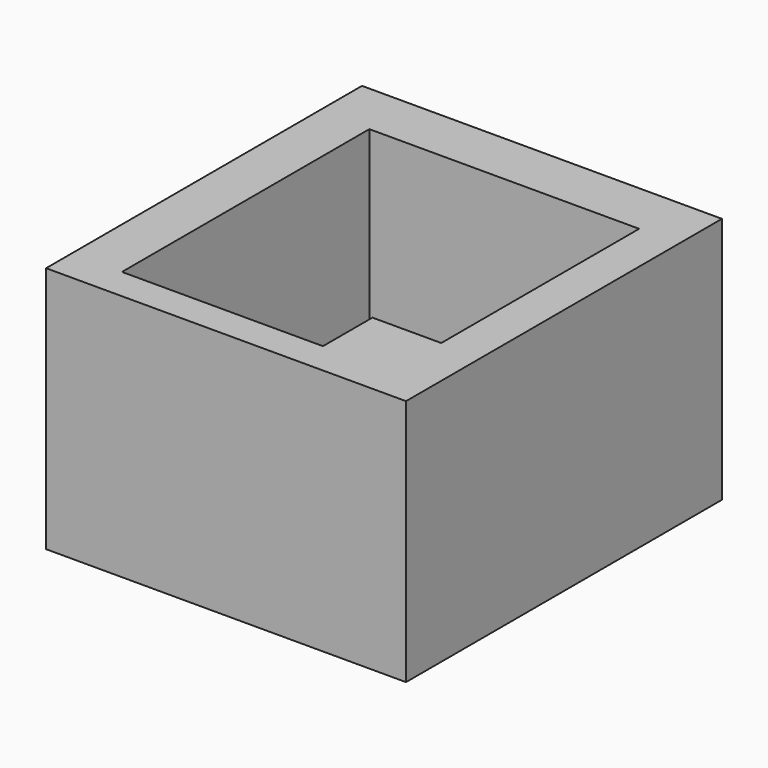
from build123d import *

# Parameters (mm, degrees)
F0_W     = 4656.033039
F0_H     = 5108.111381
F1_DEPTH = 3200


with BuildPart() as f1:
    # F0 (on Top) → F1 (new body)
    with BuildSketch(Plane.XY):
        with Locations((-921.476603, 2138.89265)):
            Rectangle(F0_W, F0_H)
        Polygon((0, 800), (0, 0), (-2600, 0), (-2600, 4000), (890, 4000), (890, 800), (0.25, 800), align=None, mode=Mode.SUBTRACT)
    extrude(amount=F1_DEPTH)


solid = f1.part
